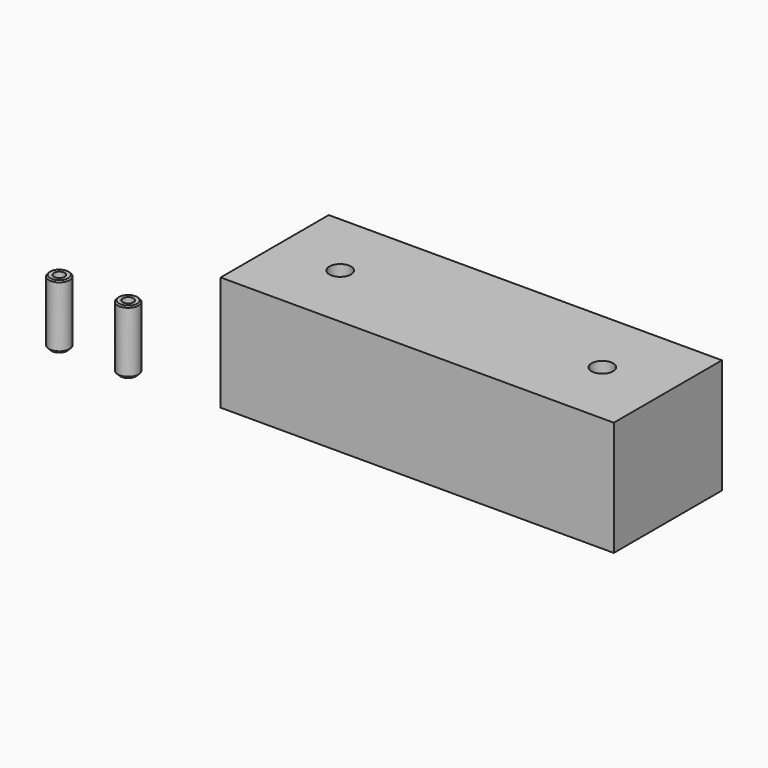
from build123d import *

# Parameters (mm, degrees)
F0_W      = 152.4
F0_H      = 52.3875
F1_DEPTH  = 44.45
F3_D      = 8.4
F3_DEPTH  = 19.05
F3_TIP    = 2.5236145999
F4_W      = 4.005
F4_H      = 25
F6_SIZE   = 0.5
F7_SIZE   = 1
F9_D      = 4.2
F9_DEPTH  = 8
F9_TIP    = 1.2618073
F12_D     = 8.8
F12_DEPTH = 6.35
F12_TIP   = 2.6437867237


with BuildPart() as f1:
    # F0 (on Top) → F1 (new body)
    with BuildSketch(Plane.XY):
        with Locations((76.2, 26.19375)):
            Rectangle(F0_W, F0_H)
    extrude(amount=F1_DEPTH)

    # F3
    with Locations(Plane.XY.offset(44.45)):
        with Locations((25.4, 26.19375), (127, 26.19375)):
            Hole(F3_D / 2, depth=F3_DEPTH)
            with Locations((0, 0, -(F3_DEPTH + F3_TIP / 2))):  # 118° drill point
                Cone(0, F3_D / 2, F3_TIP, mode=Mode.SUBTRACT)

    # F12
    with Locations(Plane(origin=(0, 0, 0), x_dir=(1, 0, 0), z_dir=(0, 0, -1))):
        with Locations((25.4, -26.19375), (127, -26.19375)):
            Hole(F12_D / 2, depth=F12_DEPTH)
            with Locations((0, 0, -(F12_DEPTH + F12_TIP / 2))):  # 118° drill point
                Cone(0, F12_D / 2, F12_TIP, mode=Mode.SUBTRACT)


with BuildPart() as f5:
    # F4 (on Front) → F5 (revolve)
    with BuildSketch(Plane.XZ):
        with Locations((-64.5397901511, 12.5)):
            Rectangle(F4_W, F4_H)
    revolve(axis=Axis((-62.5372901511, 0, 12.5), (0, 0, 1)))

    # F6
    f6_edges = [f5.edges().sort_by_distance(p)[0] for p in [
        (-58.53229, 0, 25),
    ]]
    chamfer(f6_edges, length=F6_SIZE)

    # F7
    f7_edges = [f5.edges().sort_by_distance(p)[0] for p in [
        (-58.53229, 0, 0),
    ]]
    chamfer(f7_edges, length=F7_SIZE)

    # F9
    with Locations(Plane.XY.offset(25)):
        with Locations((-62.5372901511, 0)):
            Hole(F9_D / 2, depth=F9_DEPTH)
            with Locations((0, 0, -(F9_DEPTH + F9_TIP / 2))):  # 118° drill point
                Cone(0, F9_D / 2, F9_TIP, mode=Mode.SUBTRACT)


with BuildPart() as f10_1:
    # F10: copy of F5
    add(f5.part.moved(Location((26.69665, 0, 0))))


solid = Compound([f1.part, f5.part, f10_1.part])
